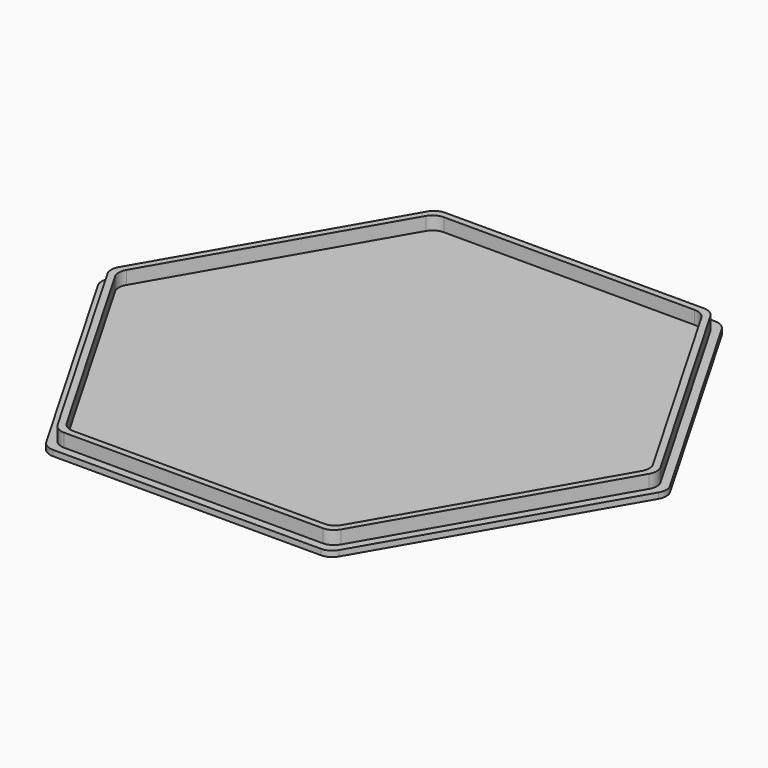
from build123d import *

# Parameters (mm, degrees)
F1_DEPTH = 0.762
F2_R     = 1.905
F4_DEPTH = 2.54
F5_R     = 1.905
F7_DEPTH = 2.54
F8_R     = 1.905


with BuildPart() as f1:
    # F0 (on Top) → F1 (new body)
    with BuildSketch(Plane.XY):
        Polygon((19.05, 32.9955678842), (-19.05, 32.9955678842), (-38.1, 0), (-19.05, -32.9955678842), (19.05, -32.9955678842), (38.1, 0), align=None)
    extrude(amount=F1_DEPTH)

    # F2
    f2_edges = [f1.edges().sort_by_distance(p)[0] for p in [
        (38.1, 0, 0.381),
        (19.05, 32.995568, 0.381),
        (-19.05, 32.995568, 0.381),
        (-38.1, 0, 0.381),
        (-19.05, -32.995568, 0.381),
        (19.05, -32.995568, 0.381),
    ]]
    fillet(f2_edges, radius=F2_R)

    # F3 (on Top) → F4 (join)
    with BuildSketch(Plane.XY):
        Polygon((18.415, 31.8957156214), (-18.415, 31.8957156214), (-36.83, 0), (-18.415, -31.8957156214), (18.415, -31.8957156214), (36.83, 0), align=None)
    extrude(amount=F4_DEPTH)

    # F5
    f5_edges = [f1.edges().sort_by_distance(p)[0] for p in [
        (-18.415, -31.895716, 1.651),
        (18.415, -31.895716, 1.651),
        (36.83, 0, 1.651),
        (-36.83, 0, 1.651),
        (18.415, 31.895716, 1.651),
        (-18.415, 31.895716, 1.651),
    ]]
    fillet(f5_edges, radius=F5_R)


with BuildPart() as f7:
    # F6 (on Top) → F7 (new body)
    with BuildSketch(Plane.XY):
        Polygon((17.907, 31.0158338111), (-17.907, 31.0158338111), (-35.814, 0), (-17.907, -31.0158338111), (17.907, -31.0158338111), (35.814, 0), align=None)
    extrude(amount=F7_DEPTH)

    # F8
    f8_edges = [f7.edges().sort_by_distance(p)[0] for p in [
        (-17.907, -31.015834, 1.27),
        (17.907, -31.015834, 1.27),
        (35.814, 0, 1.27),
        (-35.814, 0, 1.27),
        (17.907, 31.015834, 1.27),
        (-17.907, 31.015834, 1.27),
    ]]
    fillet(f8_edges, radius=F8_R)


with BuildPart() as f7_1:
    # F9: moved
    add(f7.part.moved(Location((0, 0, 0.762))))


with BuildPart() as f1_1:
    add(f1.part)

    # F10: cut F7
    add(f7_1.part, mode=Mode.SUBTRACT)


solid = f1_1.part
